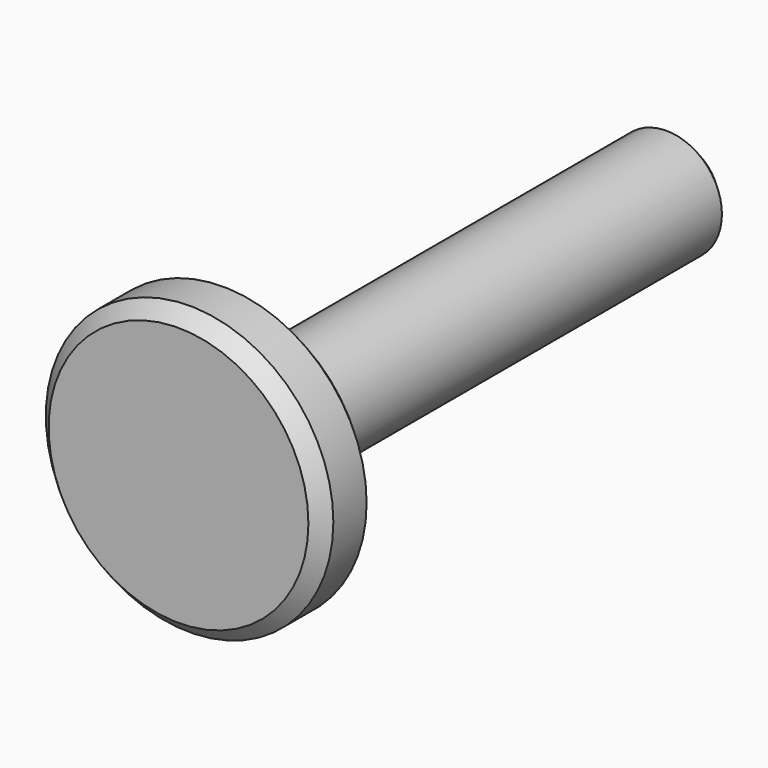
from build123d import *

# Parameters (mm, degrees)
F0_R     = 20
F1_DEPTH = 200
F2_R     = 51.8547175937
F2_R_2   = 20
F3_DEPTH = 25
F4_SIZE  = 5
F6_START = -25
F5_R     = 7.1981981043
F6_DEPTH = 26.8557175937


with BuildPart() as f1:
    # F0 (on Front) → F1 (new body)
    with BuildSketch(Plane.XZ):
        Circle(F0_R)
    extrude(amount=F1_DEPTH)

    # F2 (on face) → F3 (join)
    with BuildSketch(Plane.XZ.offset(200)):
        Circle(F2_R)
        Circle(F2_R_2, mode=Mode.SUBTRACT)
        Circle(F2_R)
    extrude(amount=F3_DEPTH)

    # F4
    f4_edges = [f1.edges().sort_by_distance(p)[0] for p in [
        (-51.854718, -225, 0),
        (-51.854718, -200, 0),
        (-20, 0, 0),
    ]]
    chamfer(f4_edges, length=F4_SIZE)

    # F5 (on Top) → F6 (cut)
    with BuildSketch(Plane.XY.offset(F6_START)):
        with Locations((0, -18.5775626451)):
            Circle(F5_R)
    extrude(amount=-F6_DEPTH, mode=Mode.SUBTRACT)


solid = f1.part
